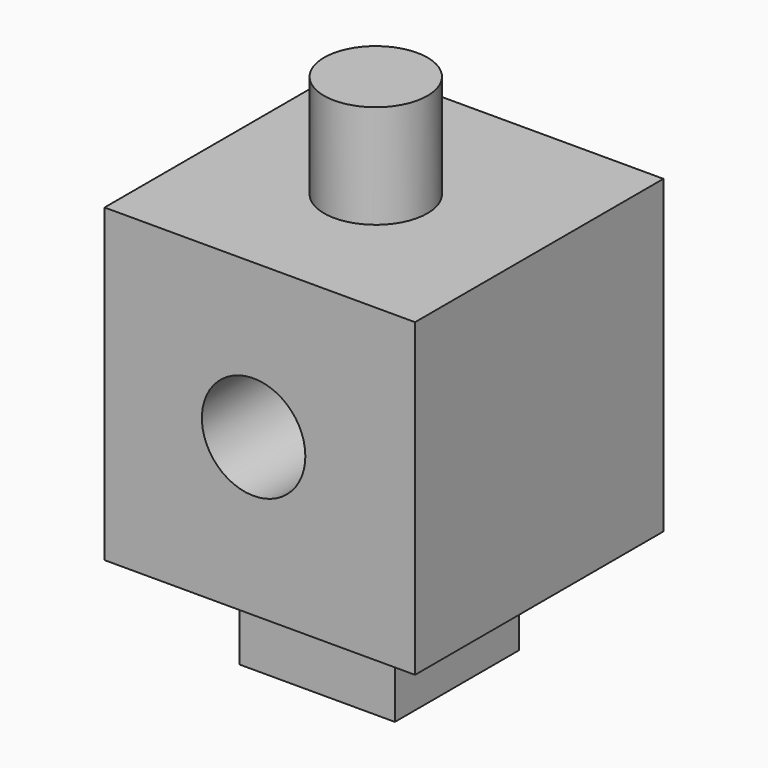
from build123d import *

# Parameters (mm, degrees)
F0_W     = 76.2
F0_H     = 76.2
F1_DEPTH = 76.2
F2_R     = 12.7
F3_DEPTH = 76.2
F4_R     = 12.7
F5_DEPTH = 25.4
F6_W     = 38.1
F6_H     = 38.1
F7_DEPTH = 25.4


with BuildPart() as f1:
    # F0 (on Top) → F1 (new body)
    with BuildSketch(Plane.XY):
        with Locations((-38.1, 38.1)):
            Rectangle(F0_W, F0_H)
    extrude(amount=F1_DEPTH)

    # F2 (on face) → F3 (cut)
    with BuildSketch(Plane.XZ):
        with Locations((-39.623093, 38.477365)):
            Circle(F2_R)
    extrude(amount=-F3_DEPTH, mode=Mode.SUBTRACT)

    # F4 (on face) → F5 (join)
    with BuildSketch(Plane.XY.offset(76.2)):
        with Locations((-39.050225, 36.758773)):
            Circle(F4_R)
    extrude(amount=F5_DEPTH)

    # F6 (on face) → F7 (join)
    with BuildSketch(Plane(origin=(0, 0, 0), x_dir=(1, 0, 0), z_dir=(0, 0, -1))):
        with Locations((-40.341444, -39.477604)):
            Rectangle(F6_W, F6_H)
    extrude(amount=F7_DEPTH)


solid = f1.part
